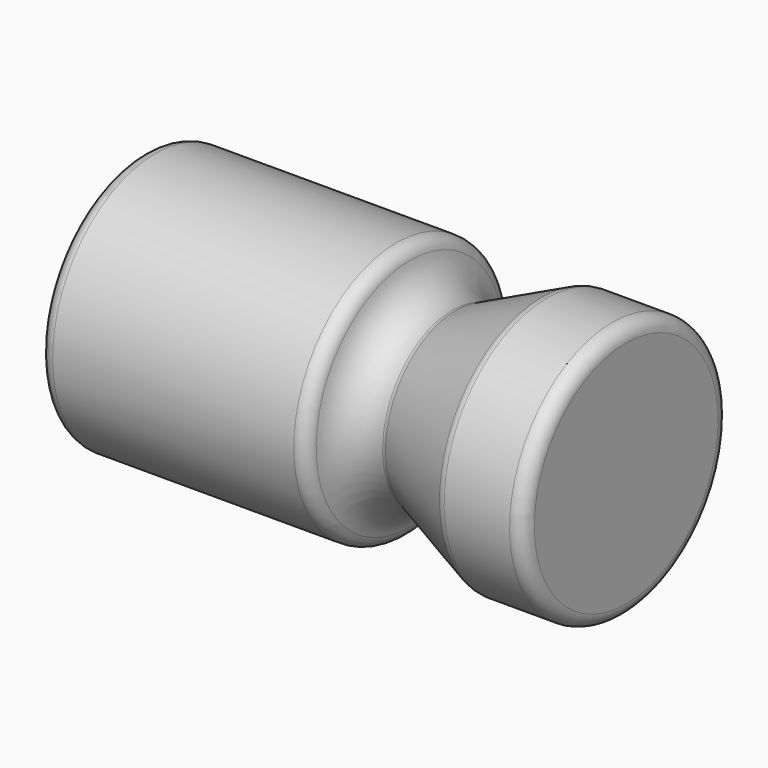
from build123d import *


with BuildPart() as f1:
    # F0 (on Front) → F1 (revolve)
    with BuildSketch(Plane.XZ):
        with BuildLine():
            Line((18.875873, 9.525), (1.016, 9.525))
            ThreePointArc((1.016, 9.525), (0.29758, 9.22742), (0, 8.509))
            Line((0, 8.509), (0, 5.528237))
            Line((0, 5.528237), (1.543109, 4.2545))
            Line((1.543109, 4.2545), (12.71111, 4.2545))
            Line((12.71111, 4.2545), (12.71111, 0))
            Line((12.71111, 0), (35.876484, 0))
            Line((35.876484, 0), (35.876484, 8.509))
            ThreePointArc((35.876484, 8.509), (35.578905, 9.22742), (34.860484, 9.525))
            Line((34.860484, 9.525), (30.013774, 9.525))
            ThreePointArc((30.013774, 9.525), (29.797433, 9.5017), (29.591016, 9.432868))
            Line((29.591016, 9.432868), (23.280109, 6.545025))
            ThreePointArc((23.280109, 6.545025), (23.144719, 6.49438), (23.003512, 6.463461))
            ThreePointArc((23.003512, 6.463461), (20.989948, 6.951543), (19.874259, 8.697366))
            ThreePointArc((19.874259, 8.697366), (19.524285, 9.291188), (18.875873, 9.525))
        make_face()
    revolve(axis=Axis((24.293797, 0, 0), (-1, 0, 0)))


solid = f1.part
